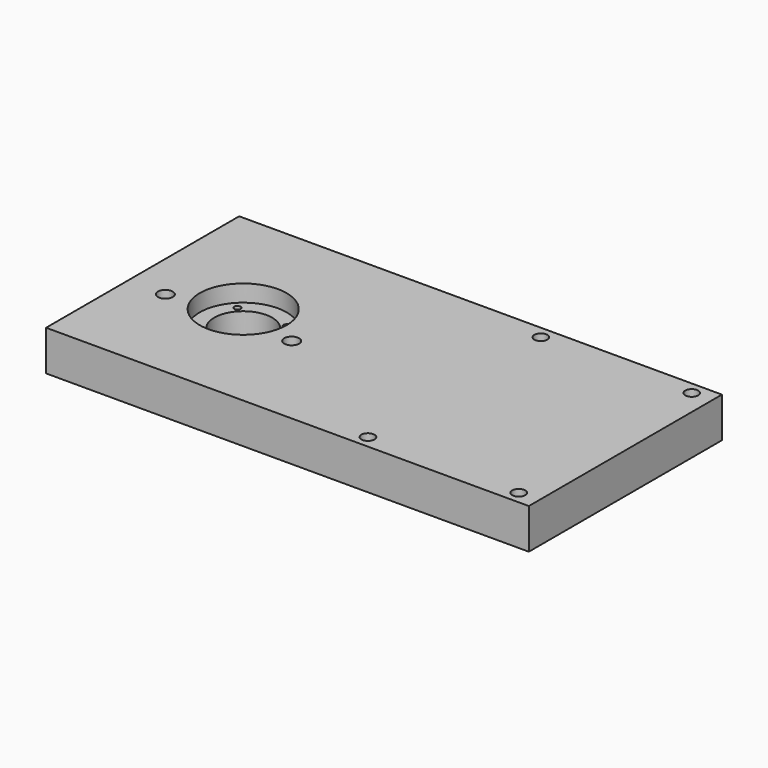
from build123d import *

# Parameters (mm, degrees)
F0_W      = 304.8
F0_H      = 152.4
F1_DEPTH  = 25.4
F2_R      = 18.288
F3_DEPTH  = 25.401
F4_R      = 27.432
F5_DEPTH  = 10.668
F7_D      = 3.9878
F8_R      = 4.699
F9_DEPTH  = 25.401
F10_R     = 6.35
F11_DEPTH = 6.35
F12_R     = 4.1275
F13_DEPTH = 25.401


with BuildPart() as f1:
    # F0 (on Top) → F1 (new body)
    with BuildSketch(Plane.XY):
        Rectangle(F0_W, F0_H)
    extrude(amount=-F1_DEPTH)

    # F2 (on face) → F3 (cut, through all)
    with BuildSketch(Plane.XY):
        with Locations((-88.9, 0)):
            Circle(F2_R)
    extrude(amount=-F3_DEPTH, mode=Mode.SUBTRACT)

    # F4 (on face) → F5 (cut)
    with BuildSketch(Plane.XY):
        with Locations((-88.9, 0)):
            Circle(F4_R)
    extrude(amount=-F5_DEPTH, mode=Mode.SUBTRACT)

    # F7 (through all)
    with Locations(Plane.XY.offset(-10.668)):
        with Locations((-104.796082, 15.356758), (-104.796082, -15.768846), (-73.706482, -15.768846), (-73.706482, 15.356758)):
            Hole(F7_D / 2)

    # F8 (on face) → F9 (cut, through all)
    with BuildSketch(Plane.XY):
        with Locations((-128.782226, -11.6078)):
            Circle(F8_R)
        with Locations((-49.026226, -11.6078)):
            Circle(F8_R)
    extrude(amount=-F9_DEPTH, mode=Mode.SUBTRACT)

    # F10 (on face) → F11 (cut)
    with BuildSketch(Plane(origin=(0, 0, -25.4), x_dir=(1, 0, 0), z_dir=(0, 0, -1))):
        with Locations((-128.782226, 11.6078)):
            Circle(F10_R)
        with Locations((-49.026226, 11.6078)):
            Circle(F10_R)
    extrude(amount=-F11_DEPTH, mode=Mode.SUBTRACT)

    # F12 (on face) → F13 (cut, through all)
    with BuildSketch(Plane.XY):
        with Locations((44.45, 68.2498)):
            Circle(F12_R)
        with Locations((139.7, 68.2498)):
            Circle(F12_R)
        with Locations((44.45, -68.2498)):
            Circle(F12_R)
        with Locations((139.7, -68.2498)):
            Circle(F12_R)
    extrude(amount=-F13_DEPTH, mode=Mode.SUBTRACT)


solid = f1.part
